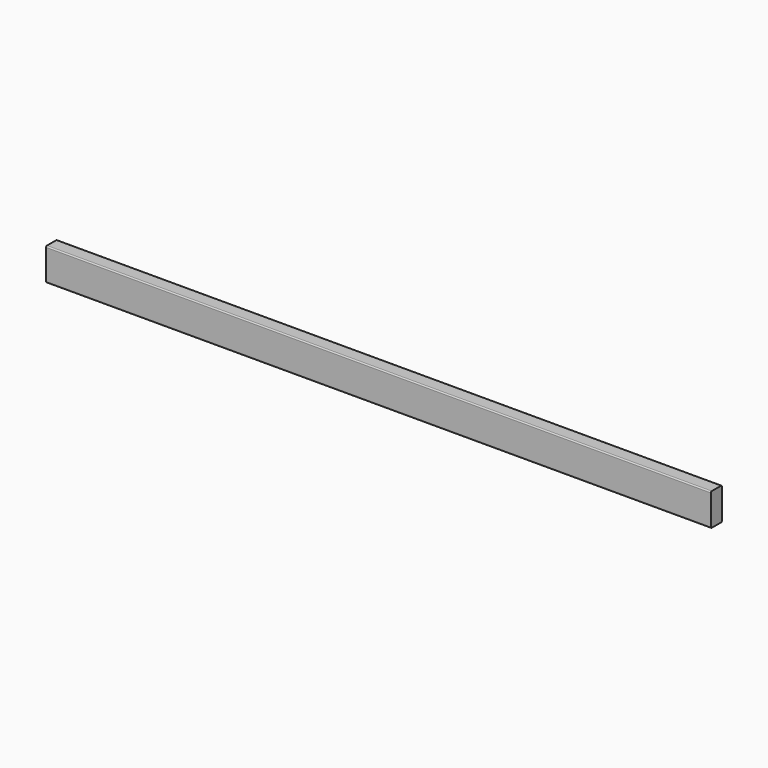
from build123d import *

# Parameters (mm, degrees)
F0_W     = 38.1
F0_H     = 88.9
F1_DEPTH = 914.4
F2_R     = 3.175


with BuildPart() as f1:
    # F0 (on Right) → F1 (new body, symmetric)
    with BuildSketch(Plane.YZ):
        Rectangle(F0_W, F0_H)
    extrude(amount=F1_DEPTH, both=True)

    # F2
    f2_edges = [f1.edges().sort_by_distance(p)[0] for p in [
        (0, -19.05, 44.45),
        (0, 19.05, 44.45),
        (0, -19.05, -44.45),
        (0, 19.05, -44.45),
    ]]
    fillet(f2_edges, radius=F2_R)


solid = f1.part
